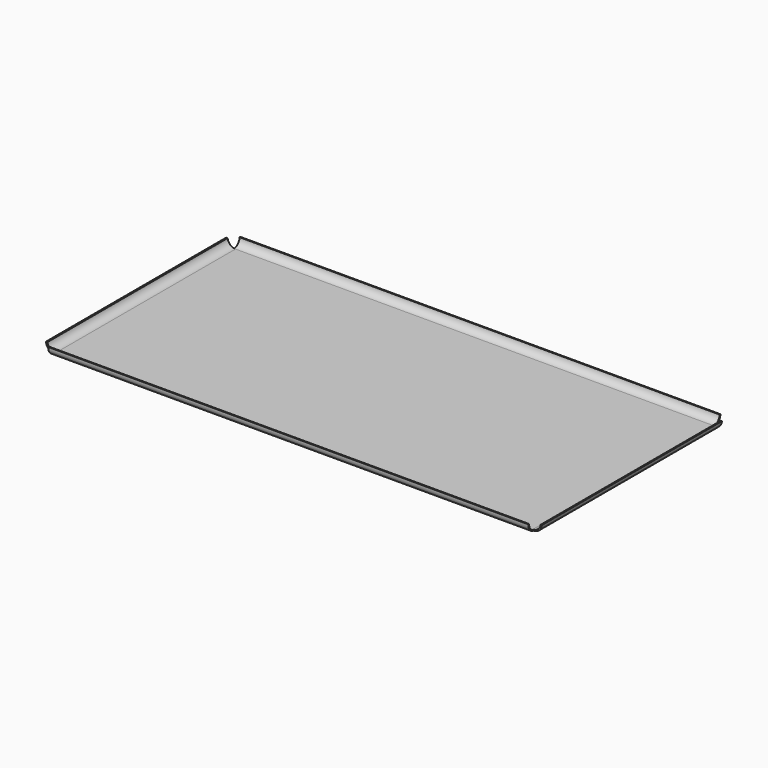
from build123d import *

# Parameters (mm, degrees)
F1_DEPTH = 304.8
F4_DEPTH = 142.9512


with BuildPart() as f1:
    # F0 (on Right) → F1 (new body)
    with BuildSketch(Plane.YZ):
        with BuildLine():
            ThreePointArc((-76.493762, 5), (-75.029296, 1.464466), (-71.493762, 0))
            Line((-71.493762, 0), (70.989686, 0))
            Line((70.989686, 0), (70.989686, 0.382358))
            ThreePointArc((70.989686, 0.382358), (70.707749, 0.358365), (70.424907, 0.350358))
            Line((70.424907, 0.350358), (-70.892295, 0.350358))
            ThreePointArc((-70.892295, 0.350358), (-74.441265, 1.828312), (-75.89215, 5.388433))
            Line((-75.89215, 5.388433), (-76.493762, 5.418832))
            Line((-76.493762, 5.418832), (-76.493762, 5))
        make_face()
        with BuildLine():
            Line((70.989686, 0.382358), (70.989686, 0))
            ThreePointArc((70.989686, 0), (74.52522, 1.464466), (75.989686, 5))
            Line((75.989686, 5), (75.412617, 5))
            ThreePointArc((75.412617, 5), (74.03575, 1.891773), (70.989686, 0.382358))
        make_face()
    extrude(amount=F1_DEPTH)

    # F3 (on face) → F4 (join)
    with BuildSketch(Plane(origin=(0, 70.989686, 0), x_dir=(-1, 0, 0), z_dir=(0, 1, 0))):
        with BuildLine():
            ThreePointArc((-309.790546, 4.692668), (-308.225153, 1.357428), (-304.8, 0))
            Line((-304.8, 0), (0, 0))
            ThreePointArc((0, 0), (3.535534, 1.464466), (5, 5))
            Line((5, 5), (4.063799, 5))
            ThreePointArc((4.063799, 5), (2.439777, 1.79969), (-0.909944, 0.511748))
            Line((-0.909944, 0.511748), (-304.112493, 0.511748))
            ThreePointArc((-304.112493, 0.511748), (-307.357958, 1.708203), (-309.050202, 4.724966))
            Line((-309.050202, 4.724966), (-309.790546, 4.692668))
        make_face()
    extrude(amount=-F4_DEPTH)


solid = f1.part
